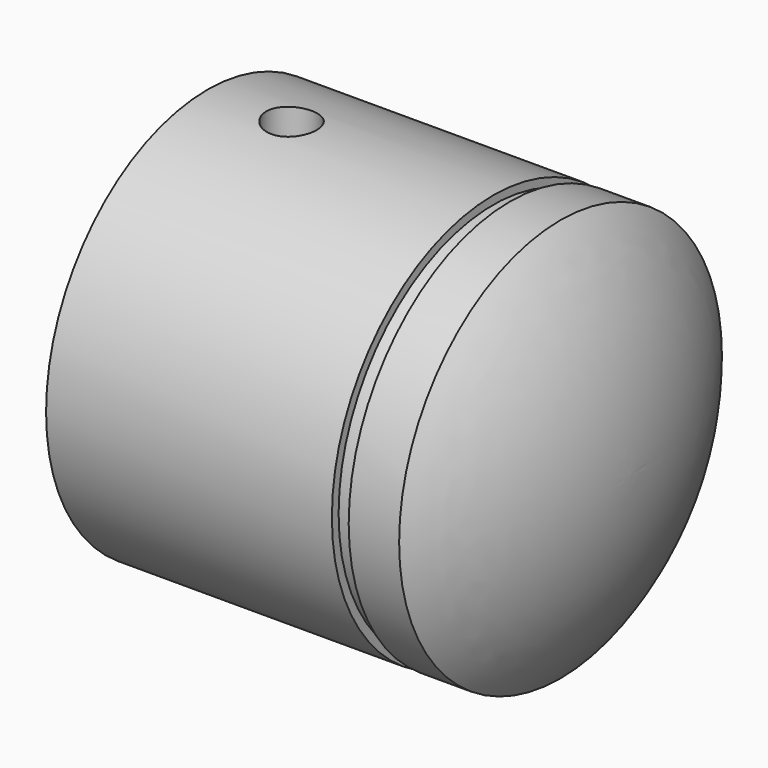
from build123d import *

# Parameters (mm, degrees)
CYLINDER_R     = 3
CYLINDER_DEPTH = 49


with BuildPart() as cylinder:
    # Cylinder → Cylinder (new body)
    with BuildSketch(Plane(origin=(40, 0, -75), x_dir=(1, 0, 0), z_dir=(0, 0, 1))):
        Circle(CYLINDER_R)
    extrude(amount=CYLINDER_DEPTH)


with BuildPart() as piston_hole:
    # Sketch010 → Revolution (revolve)
    with BuildSketch(Plane.XY.offset(-50)):
        with BuildLine():
            Line((30, 20), (70, 20))
            ThreePointArc((76.356083, 0), (74.728852, 10.492854), (70, 20))
            Line((80.356083, 0), (76.356083, 0))
            ThreePointArc((80.356083, 0), (78.207329, 12.706537), (72, 24))
            Line((66, 24), (72, 24))
            Line((66, 23), (66, 24))
            Line((64, 23), (66, 23))
            Line((64, 24), (64, 23))
            Line((30, 24), (64, 24))
            Line((30, 20), (30, 24))
        make_face()
    revolve(axis=Axis((0, 0, -50), (1, 0, 0)))

    # Cut: cut Cylinder
    add(cylinder.part, mode=Mode.SUBTRACT)


solid = piston_hole.part
